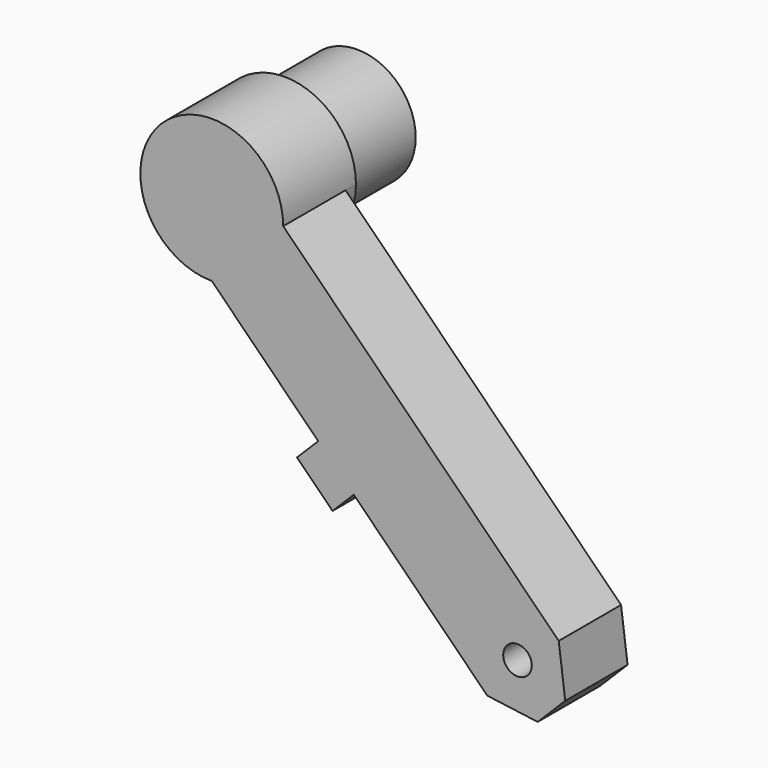
from build123d import *

# Parameters (mm, degrees)
F0_R     = 1.1
F0_R_2   = 4.5
F1_DEPTH = 6
F2_DEPTH = 1
F3_DEPTH = 8


with BuildPart() as f1:
    # F0 (on Front) → F1 (new body)
    with BuildSketch(Plane.XZ):
        with BuildLine():
            Line((26.7132034356, -21.2132034356), (5.5, 0))
            ThreePointArc((5.5, 0), (3.8890872965, -3.8890872965), (0, -5.5))
            Line((0, -5.5), (8.1949569136, -13.6949569136))
            Line((8.1949569136, -13.6949569136), (10.9329223484, -16.4329223484))
            Line((10.9329223484, -16.4329223484), (21.2132034356, -26.7132034356))
            Line((21.2132034356, -26.7132034356), (25.0945742855, -27.2313275223))
            Line((25.0945742855, -27.2313275223), (27.2158946291, -25.1100071787))
            Line((27.2158946291, -25.1100071787), (26.7132034356, -21.2132034356))
        make_face()
        with Locations((23.5389393669, -23.5543722601)):
            Circle(F0_R, mode=Mode.SUBTRACT)
        with BuildLine():
            ThreePointArc((0, -5.5), (3.8890872965, -3.8890872965), (5.5, 0))
            ThreePointArc((5.5, 0), (-3.8890872965, 3.8890872965), (0, -5.5))
        make_face()
        Circle(F0_R_2, mode=Mode.SUBTRACT)
        Circle(F0_R_2)
        Polygon((10.9329223484, -16.4329223484), (8.1949569136, -13.6949569136), (6.5603537951, -15.3295600321), (9.2983192299, -18.0675254669), align=None)
    extrude(amount=F1_DEPTH)

    # F0 (on Front) → F2 (join)
    with BuildSketch(Plane.XZ):
        with BuildLine():
            ThreePointArc((0, -5.5), (3.8890872965, -3.8890872965), (5.5, 0))
            ThreePointArc((5.5, 0), (-3.8890872965, 3.8890872965), (0, -5.5))
        make_face()
        Circle(F0_R_2, mode=Mode.SUBTRACT)
        Circle(F0_R_2)
    extrude(amount=-F2_DEPTH)

    # F0 (on Front) → F3 (join)
    with BuildSketch(Plane.XZ):
        Circle(F0_R_2)
    extrude(amount=-F3_DEPTH)


solid = f1.part
